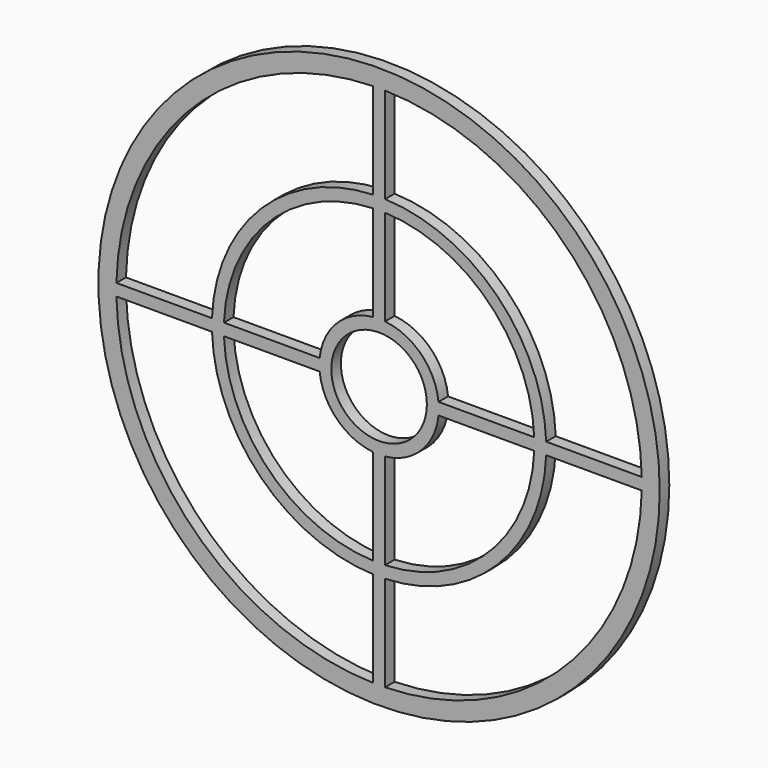
from build123d import *

# Parameters (mm, degrees)
F0_R     = 149.225
F0_R_2   = 25.399996
F1_DEPTH = 6.35


with BuildPart() as f1:
    # F0 (on Front) → F1 (new body)
    with BuildSketch(Plane.XZ):
        Circle(F0_R)
        with BuildLine():
            ThreePointArc((-3.175, -139.663916), (-98.782817, -98.782817), (-139.663916, -3.175))
            Line((-139.663916, -3.175), (-88.843285, -3.175))
            ThreePointArc((-88.843285, -3.175), (-62.861793, -62.861793), (-3.175, -88.843285))
            Line((-3.175, -88.843285), (-3.175, -139.663916))
        make_face(mode=Mode.SUBTRACT)
        with BuildLine():
            ThreePointArc((-3.175, -82.488916), (-58.371662, -58.371662), (-82.488916, -3.175))
            Line((-82.488916, -3.175), (-31.590848, -3.175))
            ThreePointArc((-31.590848, -3.175), (-22.450638, -22.450638), (-3.175, -31.590848))
            Line((-3.175, -31.590848), (-3.175, -82.488916))
        make_face(mode=Mode.SUBTRACT)
        with BuildLine():
            Line((3.175, -139.663916), (3.175, -88.843285))
            ThreePointArc((3.175, -88.843285), (62.861793, -62.861793), (88.843285, -3.175))
            Line((88.843285, -3.175), (139.663916, -3.175))
            ThreePointArc((139.663916, -3.175), (98.782817, -98.782817), (3.175, -139.663916))
        make_face(mode=Mode.SUBTRACT)
        with BuildLine():
            Line((3.175, -82.488916), (3.175, -31.590848))
            ThreePointArc((3.175, -31.590848), (22.450638, -22.450638), (31.590848, -3.175))
            Line((31.590848, -3.175), (31.749997, -3.175))
            Line((31.749997, -3.175), (82.488916, -3.175))
            ThreePointArc((82.488916, -3.175), (58.371662, -58.371662), (3.175, -82.488916))
        make_face(mode=Mode.SUBTRACT)
        with BuildLine():
            Line((-31.590848, 3.175), (-31.749997, 3.175))
            Line((-31.749997, 3.175), (-82.488916, 3.175))
            ThreePointArc((-82.488916, 3.175), (-58.371662, 58.371662), (-3.175, 82.488916))
            Line((-3.175, 82.488916), (-3.175, 31.749997))
            Line((-3.175, 31.749997), (-3.175, 31.590848))
            ThreePointArc((-3.175, 31.590848), (-22.450638, 22.450638), (-31.590848, 3.175))
        make_face(mode=Mode.SUBTRACT)
        with BuildLine():
            ThreePointArc((-139.663916, 3.175), (-98.782817, 98.782817), (-3.175, 139.663916))
            Line((-3.175, 139.663916), (-3.175, 88.843285))
            ThreePointArc((-3.175, 88.843285), (-62.861793, 62.861793), (-88.843285, 3.175))
            Line((-88.843285, 3.175), (-139.663916, 3.175))
        make_face(mode=Mode.SUBTRACT)
        Circle(F0_R_2, mode=Mode.SUBTRACT)
        with BuildLine():
            Line((3.175, 31.590848), (3.175, 31.749997))
            Line((3.175, 31.749997), (3.175, 82.488916))
            ThreePointArc((3.175, 82.488916), (58.371662, 58.371662), (82.488916, 3.175))
            Line((82.488916, 3.175), (31.590848, 3.175))
            ThreePointArc((31.590848, 3.175), (22.450638, 22.450638), (3.175, 31.590848))
        make_face(mode=Mode.SUBTRACT)
        with BuildLine():
            ThreePointArc((3.175, 139.663916), (98.782817, 98.782817), (139.663916, 3.175))
            Line((139.663916, 3.175), (88.843285, 3.175))
            ThreePointArc((88.843285, 3.175), (62.861793, 62.861793), (3.175, 88.843285))
            Line((3.175, 88.843285), (3.175, 139.663916))
        make_face(mode=Mode.SUBTRACT)
    extrude(amount=F1_DEPTH)


solid = f1.part
